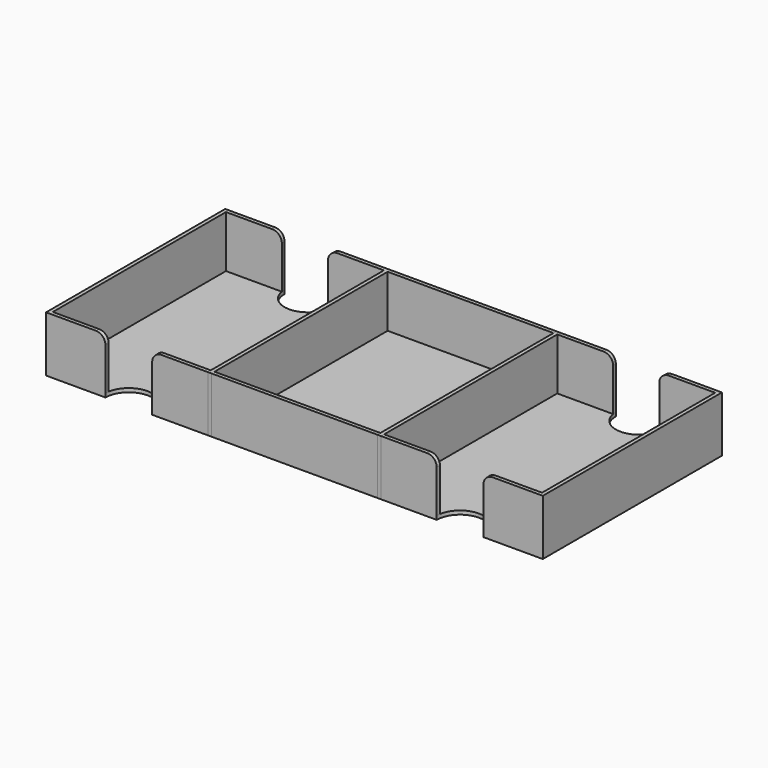
from build123d import *

# Parameters (mm, degrees)
SKETCH121_W          = 70.9
SKETCH121_H          = 92.5
PAD072_DEPTH         = 22.2
THICKNESS053_T       = 1.6
SKETCH119_W          = 67.5
SKETCH119_H          = 92.5
PAD071_DEPTH         = 22.2
THICKNESS052_T       = 1.6
SKETCH120_R          = 10
POCKET043_DEPTH      = 22.201
POCKET043_DEPTH_BACK = 1.601
FILLET019_R          = 4
SKETCH118_W          = 67.5
SKETCH118_H          = 92.5
PAD073_DEPTH         = 22.2
THICKNESS051_T       = 1.6
SKETCH122_R          = 10
POCKET042_DEPTH      = 22.201
POCKET042_DEPTH_BACK = 1.601
FILLET018_R          = 4


with BuildPart() as piecestray003:
    # Sketch121 → Pad072 (new body)
    with BuildSketch(Plane.XY):
        Rectangle(SKETCH121_W, SKETCH121_H)
    extrude(amount=PAD072_DEPTH)

    # Thickness053
    thickness053_openings = [piecestray003.faces().sort_by_distance(p)[0] for p in [
        (0, 0, 22.2),
    ]]
    offset(amount=THICKNESS053_T, openings=thickness053_openings, kind=Kind.INTERSECTION)


with BuildPart() as piecestray003_1:
    # Body065 placement: moved
    add(piecestray003.part.moved(Location((70.8, 0, 0))))


with BuildPart() as obj1:
    # Sketch119 → Pad071 (new body)
    with BuildSketch(Plane.XY):
        Rectangle(SKETCH119_W, SKETCH119_H)
    extrude(amount=PAD071_DEPTH)

    # Thickness052
    thickness052_openings = [obj1.faces().sort_by_distance(p)[0] for p in [
        (0, 0, 22.2),
    ]]
    offset(amount=THICKNESS052_T, openings=thickness052_openings, kind=Kind.INTERSECTION)

    # Sketch120 → Pocket043 (cut, two sides)
    with BuildSketch(Plane.XY) as pocket043_sk:
        with Locations((0, -47.85)):
            Circle(SKETCH120_R)
        with Locations((0, 47.85)):
            Circle(SKETCH120_R)
    extrude(amount=POCKET043_DEPTH, mode=Mode.SUBTRACT)
    extrude(pocket043_sk.sketch, amount=-POCKET043_DEPTH_BACK, mode=Mode.SUBTRACT)

    # Fillet019
    fillet019_edges = [obj1.edges().sort_by_distance(p)[0] for p in [
        (9.967741, 47.047411, 22.2),
        (-9.967741, 47.047411, 22.2),
        (-9.967741, -47.047411, 22.2),
        (9.967741, -47.047411, 22.2),
    ]]
    fillet(fillet019_edges, radius=FILLET019_R)


with BuildPart() as obj1_1:
    # Body066 placement: moved
    add(obj1.part.moved(Location((141.6, 0, 0))))


with BuildPart() as obj2:
    # Sketch118 → Pad073 (new body)
    with BuildSketch(Plane.XY):
        Rectangle(SKETCH118_W, SKETCH118_H)
    extrude(amount=PAD073_DEPTH)

    # Thickness051
    thickness051_openings = [obj2.faces().sort_by_distance(p)[0] for p in [
        (0, 0, 22.2),
    ]]
    offset(amount=THICKNESS051_T, openings=thickness051_openings, kind=Kind.INTERSECTION)

    # Sketch122 → Pocket042 (cut, two sides)
    with BuildSketch(Plane.XY) as pocket042_sk:
        with Locations((0, -47.85)):
            Circle(SKETCH122_R)
        with Locations((0, 47.85)):
            Circle(SKETCH122_R)
    extrude(amount=POCKET042_DEPTH, mode=Mode.SUBTRACT)
    extrude(pocket042_sk.sketch, amount=-POCKET042_DEPTH_BACK, mode=Mode.SUBTRACT)

    # Fillet018
    fillet018_edges = [obj2.edges().sort_by_distance(p)[0] for p in [
        (-9.967741, 47.047411, 22.2),
        (-9.967741, -47.047411, 22.2),
        (9.967741, 47.047411, 22.2),
        (9.967741, -47.047411, 22.2),
    ]]
    fillet(fillet018_edges, radius=FILLET018_R)

    # Boolean004: union PiecesTray003, obj1
    add(piecestray003_1.part)
    add(obj1_1.part)


solid = obj2.part
